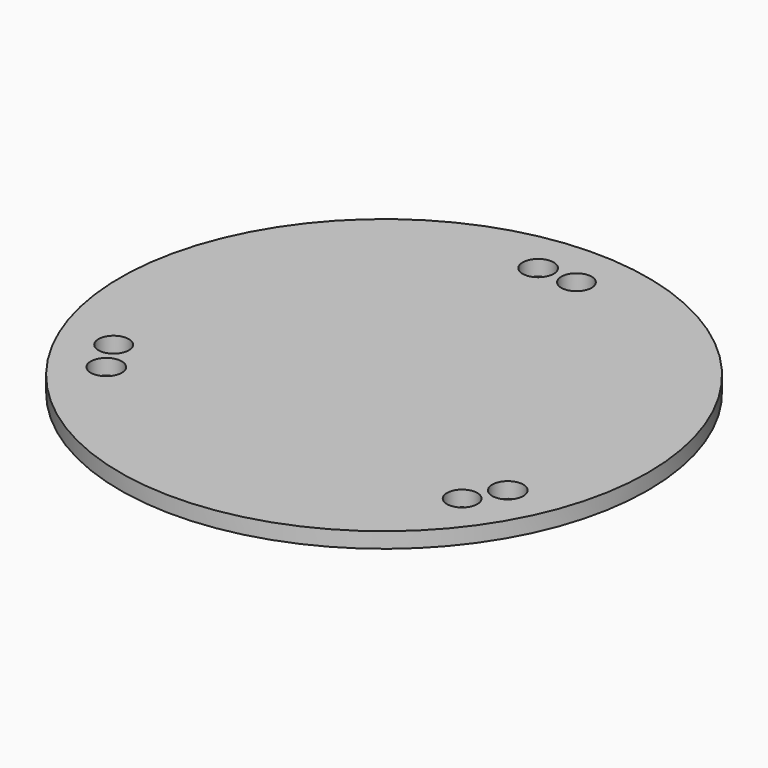
from build123d import *

# Parameters (mm, degrees)
F0_R     = 17
F0_R_2   = 1
F0_R_3   = 0.977663
F1_DEPTH = 1


with BuildPart() as f1:
    # F0 (on Top) → F1 (new body)
    with BuildSketch(Plane.XY):
        Circle(F0_R)
        with Locations((-11.460838, -8.040472)):
            Circle(F0_R_2, mode=Mode.SUBTRACT)
        with Locations((-12.693672, -5.905141)):
            Circle(F0_R_3, mode=Mode.SUBTRACT)
        with Locations((11.460838, -8.040472)):
            Circle(F0_R_3, mode=Mode.SUBTRACT)
        with Locations((12.693672, -5.905141)):
            Circle(F0_R_2, mode=Mode.SUBTRACT)
        with Locations((-1.232834, 13.945613)):
            Circle(F0_R_2, mode=Mode.SUBTRACT)
        with Locations((1.232834, 13.945613)):
            Circle(F0_R_3, mode=Mode.SUBTRACT)
    extrude(amount=F1_DEPTH)


solid = f1.part
